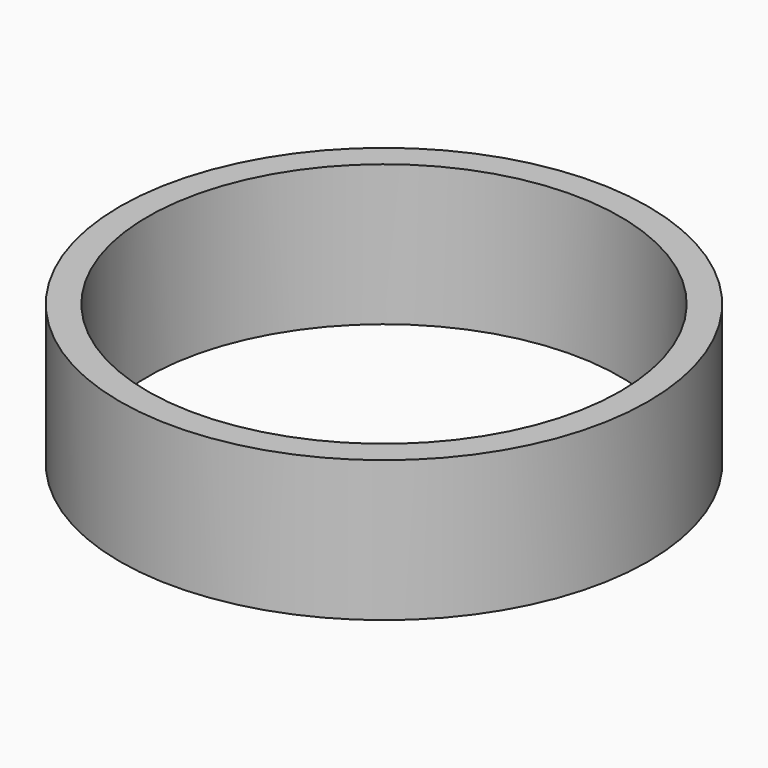
from build123d import *

# Parameters (mm, degrees)
F0_R     = 42.445475
F0_R_2   = 37.988954
F1_DEPTH = 22.634709


with BuildPart() as f1:
    # F0 (on Top) → F1 (new body)
    with BuildSketch(Plane.XY):
        Circle(F0_R)
        Circle(F0_R_2, mode=Mode.SUBTRACT)
        Circle(F0_R)
        Circle(F0_R_2, mode=Mode.SUBTRACT)
    extrude(amount=F1_DEPTH)


solid = f1.part
